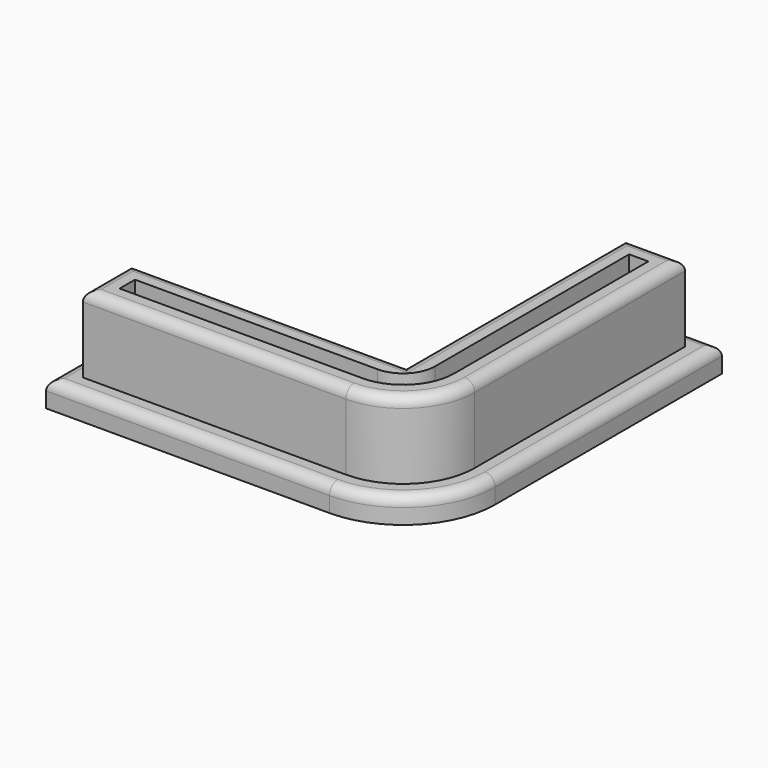
from build123d import *

# Parameters (mm, degrees)
F0_W     = 2.3876
F0_H     = 2.54
F0_W_2   = 2.54
F0_H_2   = 2.3876
F1_DEPTH = 3.175
F2_DEPTH = 12.7
F3_R     = 1.27


with BuildPart() as f1:
    # F0 (on Top) → F1 (new body)
    with BuildSketch(Plane.XY):
        Polygon((-34.1249, 7.4676), (-34.1249, 4.9276), (-4.9276, 4.9276), (-4.9276, 34.1249), (-7.4676, 34.1249), (-7.4676, 7.4676), align=None)
        with Locations((-35.3187, 6.1976)):
            Rectangle(F0_W, F0_H)
        with BuildLine():
            Line((-39.0525, 4.9276), (-36.5125, 4.9276))
            Line((-36.5125, 4.9276), (-36.5125, 7.4676))
            Line((-36.5125, 7.4676), (-41.5925, 7.4676))
            Line((-41.5925, 7.4676), (-41.5925, -5.08))
            Line((-41.5925, -5.08), (-6.35, -5.08))
            ThreePointArc((-6.35, -5.08), (1.732230509, -1.732230509), (5.08, 6.35))
            Line((5.08, 6.35), (5.08, 41.5925))
            Line((5.08, 41.5925), (-7.4676, 41.5925))
            Line((-7.4676, 41.5925), (-7.4676, 36.5125))
            Line((-7.4676, 36.5125), (-4.9276, 36.5125))
            Line((-4.9276, 36.5125), (-4.9276, 39.0525))
            Line((-4.9276, 39.0525), (2.54, 39.0525))
            Line((2.54, 39.0525), (2.54, 6.35))
            ThreePointArc((2.54, 6.35), (-0.0638207153, 0.0638207153), (-6.35, -2.54))
            Line((-6.35, -2.54), (-39.0525, -2.54))
            Line((-39.0525, -2.54), (-39.0525, 4.9276))
        make_face()
        with BuildLine():
            Line((-34.1249, 4.9276), (-34.1249, 2.3876))
            Line((-34.1249, 2.3876), (-6.35, 2.3876))
            ThreePointArc((-6.35, 2.3876), (-3.5481600902, 3.5481600902), (-2.3876, 6.35))
            Line((-2.3876, 6.35), (-2.3876, 34.1249))
            Line((-2.3876, 34.1249), (-4.9276, 34.1249))
            Line((-4.9276, 34.1249), (-4.9276, 4.9276))
            Line((-4.9276, 4.9276), (-34.1249, 4.9276))
        make_face()
        with BuildLine():
            Line((-36.5125, 0), (-6.35, 0))
            ThreePointArc((-6.35, 0), (-1.8598719395, 1.8598719395), (0, 6.35))
            Line((0, 6.35), (0, 36.5125))
            Line((0, 36.5125), (-2.3876, 36.5125))
            Line((-2.3876, 36.5125), (-2.3876, 34.1249))
            Line((-2.3876, 34.1249), (-2.3876, 6.35))
            ThreePointArc((-2.3876, 6.35), (-3.5481600902, 3.5481600902), (-6.35, 2.3876))
            Line((-6.35, 2.3876), (-34.1249, 2.3876))
            Line((-34.1249, 2.3876), (-36.5125, 2.3876))
            Line((-36.5125, 2.3876), (-36.5125, 0))
        make_face()
        with BuildLine():
            ThreePointArc((0, 6.35), (-1.8598719395, 1.8598719395), (-6.35, 0))
            Line((-6.35, 0), (-36.5125, 0))
            Line((-36.5125, 0), (-36.5125, 2.3876))
            Line((-36.5125, 2.3876), (-36.5125, 4.9276))
            Line((-36.5125, 4.9276), (-39.0525, 4.9276))
            Line((-39.0525, 4.9276), (-39.0525, -2.54))
            Line((-39.0525, -2.54), (-6.35, -2.54))
            ThreePointArc((-6.35, -2.54), (-0.0638207153, 0.0638207153), (2.54, 6.35))
            Line((2.54, 6.35), (2.54, 39.0525))
            Line((2.54, 39.0525), (-4.9276, 39.0525))
            Line((-4.9276, 39.0525), (-4.9276, 36.5125))
            Line((-4.9276, 36.5125), (-2.3876, 36.5125))
            Line((-2.3876, 36.5125), (0, 36.5125))
            Line((0, 36.5125), (0, 6.35))
        make_face()
        with Locations((-35.3187, 3.6576)):
            Rectangle(F0_W, F0_H)
        with Locations((-3.6576, 35.3187)):
            Rectangle(F0_W_2, F0_H_2)
        with Locations((-6.1976, 35.3187)):
            Rectangle(F0_W_2, F0_H_2)
    extrude(amount=F1_DEPTH)

    # F0 (on Top) → F2 (join)
    with BuildSketch(Plane.XY):
        with BuildLine():
            ThreePointArc((0, 6.35), (-1.8598719395, 1.8598719395), (-6.35, 0))
            Line((-6.35, 0), (-36.5125, 0))
            Line((-36.5125, 0), (-36.5125, 2.3876))
            Line((-36.5125, 2.3876), (-36.5125, 4.9276))
            Line((-36.5125, 4.9276), (-39.0525, 4.9276))
            Line((-39.0525, 4.9276), (-39.0525, -2.54))
            Line((-39.0525, -2.54), (-6.35, -2.54))
            ThreePointArc((-6.35, -2.54), (-0.0638207153, 0.0638207153), (2.54, 6.35))
            Line((2.54, 6.35), (2.54, 39.0525))
            Line((2.54, 39.0525), (-4.9276, 39.0525))
            Line((-4.9276, 39.0525), (-4.9276, 36.5125))
            Line((-4.9276, 36.5125), (-2.3876, 36.5125))
            Line((-2.3876, 36.5125), (0, 36.5125))
            Line((0, 36.5125), (0, 6.35))
        make_face()
        with BuildLine():
            Line((-34.1249, 4.9276), (-34.1249, 2.3876))
            Line((-34.1249, 2.3876), (-6.35, 2.3876))
            ThreePointArc((-6.35, 2.3876), (-3.5481600902, 3.5481600902), (-2.3876, 6.35))
            Line((-2.3876, 6.35), (-2.3876, 34.1249))
            Line((-2.3876, 34.1249), (-4.9276, 34.1249))
            Line((-4.9276, 34.1249), (-4.9276, 4.9276))
            Line((-4.9276, 4.9276), (-34.1249, 4.9276))
        make_face()
        with Locations((-35.3187, 3.6576)):
            Rectangle(F0_W, F0_H)
        with Locations((-3.6576, 35.3187)):
            Rectangle(F0_W_2, F0_H_2)
    extrude(amount=F2_DEPTH)

    # F3
    f3_edges = [f1.edges().sort_by_distance(p)[0] for p in [
        (5.08, 23.97125, 3.175),
        (-1.1938, 41.5925, 3.175),
        (-7.4676, 24.53005, 3.175),
        (-24.53005, 7.4676, 3.175),
        (-41.5925, 1.1938, 3.175),
        (-4.9276, 21.99005, 12.7),
        (-1.1938, 39.0525, 12.7),
        (2.54, 22.70125, 12.7),
        (-21.99005, 4.9276, 12.7),
        (-39.0525, 1.1938, 12.7),
    ]]
    fillet(f3_edges, radius=F3_R)


solid = f1.part
